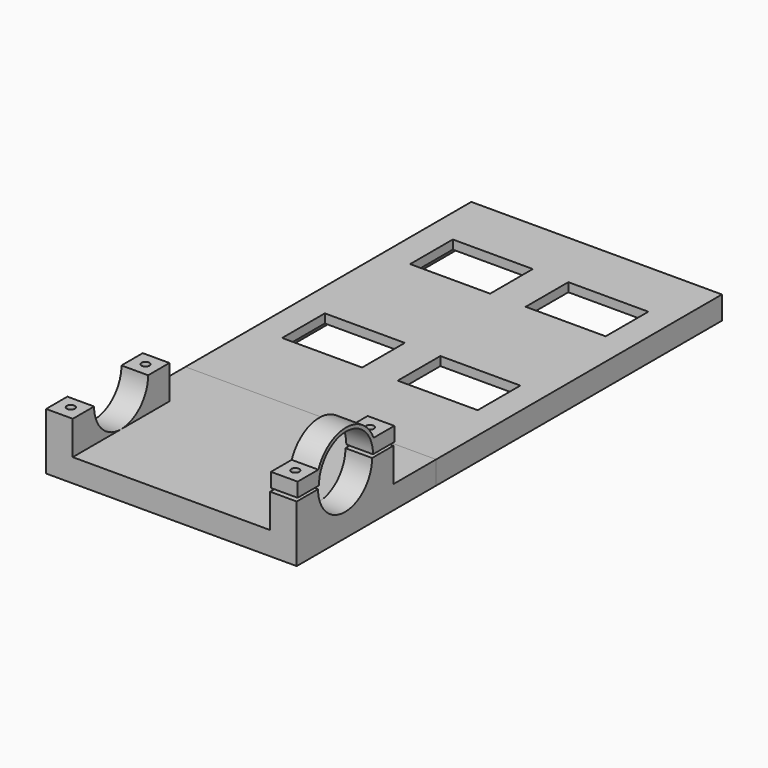
from build123d import *

# Parameters (mm, degrees)
SKETCH_W             = 141
SKETCH_H             = 299
PAD_DEPTH            = 13
SKETCH001_W          = 15
SKETCH001_H          = 68
PAD001_DEPTH         = 61
SKETCH015_W          = 125
SKETCH015_H          = 185
SKETCH016_W          = 115
SKETCH016_H          = 185
SKETCH003_W          = 45
SKETCH003_H          = 30
POCKET_DEPTH         = 0.001
POCKET_DEPTH_BACK    = -61.001
SKETCH004_R          = 19
POCKET011_DEPTH      = 141.001
SKETCH005_W          = 70
SKETCH005_H          = 65
POCKET012_DEPTH      = 141.001
SKETCH006_R          = 2.25
POCKET013_DEPTH      = 32.001
SKETCH007_R          = 4
POCKET014_DEPTH      = 29
SKETCH009_W          = 15
SKETCH009_H          = 68
PAD003_DEPTH         = 61
SKETCH010_R          = 19
POCKET006_DEPTH      = 7.501
POCKET006_DEPTH_BACK = -7.501
SKETCH011_W          = 80
SKETCH011_H          = 40
POCKET007_DEPTH      = 7.501
POCKET007_DEPTH_BACK = -7.501
SKETCH012_R          = 2.25
POCKET008_DEPTH      = 55
POCKET015_DEPTH      = 7.501
POCKET015_DEPTH_BACK = -7.501
SKETCH018_W          = 141
SKETCH018_H          = 98
PAD004_DEPTH         = 13
SKETCH019_W          = 15
SKETCH019_H          = 68
PAD005_DEPTH         = 61
SKETCH021_R          = 19
POCKET017_DEPTH      = 141.001
SKETCH022_W          = 70
SKETCH022_H          = 65
POCKET018_DEPTH      = 141.001
SKETCH023_R          = 2.25
POCKET019_DEPTH      = 32.001
SKETCH024_R          = 4
POCKET020_DEPTH      = 29


with BuildPart() as body:
    # Sketch → Pad (new body)
    with BuildSketch(Plane.XY):
        with Locations((70.5, 149.5)):
            Rectangle(SKETCH_W, SKETCH_H)
    extrude(amount=PAD_DEPTH)

    # Sketch001 → Pad001 (join)
    with BuildSketch(Plane.XY):
        with Locations((133.5, 34)):
            Rectangle(SKETCH001_W, SKETCH001_H)
        with Locations((7.5, 34)):
            Rectangle(SKETCH001_W, SKETCH001_H)
    extrude(amount=PAD001_DEPTH)

    # Sketch015 → SubtractiveLoft section 0
    with BuildSketch(Plane.XY):
        with Locations((70.5, 198.5)):
            Rectangle(SKETCH015_W, SKETCH015_H)
    # Sketch016 → SubtractiveLoft section 1
    with BuildSketch(Plane.XY.offset(8)):
        with Locations((70.5, 198.5)):
            Rectangle(SKETCH016_W, SKETCH016_H)
    loft(mode=Mode.SUBTRACT)

    # Sketch003 → Pocket (cut, two sides)
    with BuildSketch(Plane.XY) as pocket_sk:
        with Locations((38.5, 251)):
            Rectangle(SKETCH003_W, SKETCH003_H)
        with Locations((103.5, 251)):
            Rectangle(SKETCH003_W, SKETCH003_H)
        with Locations((103.5, 161)):
            Rectangle(SKETCH003_W, SKETCH003_H)
        with Locations((38.5, 161)):
            Rectangle(SKETCH003_W, SKETCH003_H)
    extrude(amount=-POCKET_DEPTH, mode=Mode.SUBTRACT)
    extrude(pocket_sk.sketch, amount=-POCKET_DEPTH_BACK, mode=Mode.SUBTRACT)

    # Sketch004 → Pocket011 (cut, through all)
    with BuildSketch(Plane.YZ):
        with Locations((34, 32)):
            Circle(SKETCH004_R)
    extrude(amount=POCKET011_DEPTH, mode=Mode.SUBTRACT)

    # Sketch005 → Pocket012 (cut, through all)
    with BuildSketch(Plane.YZ):
        with Locations((35, 64.5)):
            Rectangle(SKETCH005_W, SKETCH005_H)
    extrude(amount=POCKET012_DEPTH, mode=Mode.SUBTRACT)

    # Sketch006 → Pocket013 (cut, through all)
    with BuildSketch(Plane.XY):
        with Locations((7.5, 60.5)):
            Circle(SKETCH006_R)
        with Locations((133.5, 60.5)):
            Circle(SKETCH006_R)
        with Locations((133.5, 8)):
            Circle(SKETCH006_R)
        with Locations((7.5, 8)):
            Circle(SKETCH006_R)
    extrude(amount=POCKET013_DEPTH, mode=Mode.SUBTRACT)

    # Sketch007 → Pocket014 (cut)
    with BuildSketch(Plane.XY):
        with Locations((133.5, 8)):
            Circle(SKETCH007_R)
        with Locations((7.5, 60.5)):
            Circle(SKETCH007_R)
        with Locations((7.5, 8)):
            Circle(SKETCH007_R)
        with Locations((133.5, 60.5)):
            Circle(SKETCH007_R)
    extrude(amount=POCKET014_DEPTH, mode=Mode.SUBTRACT)


with BuildPart() as hole_fixer:
    # Sketch009 → Pad003 (new body)
    with BuildSketch(Plane.XY):
        Rectangle(SKETCH009_W, SKETCH009_H)
    extrude(amount=PAD003_DEPTH)

    # Sketch010 → Pocket006 (cut, two sides)
    with BuildSketch(Plane.YZ) as pocket006_sk:
        with Locations((0, 32)):
            Circle(SKETCH010_R)
    extrude(amount=-POCKET006_DEPTH, mode=Mode.SUBTRACT)
    extrude(pocket006_sk.sketch, amount=-POCKET006_DEPTH_BACK, mode=Mode.SUBTRACT)

    # Sketch011 → Pocket007 (cut, two sides)
    with BuildSketch(Plane.YZ) as pocket007_sk:
        with Locations((0, 12)):
            Rectangle(SKETCH011_W, SKETCH011_H)
    extrude(amount=-POCKET007_DEPTH, mode=Mode.SUBTRACT)
    extrude(pocket007_sk.sketch, amount=-POCKET007_DEPTH_BACK, mode=Mode.SUBTRACT)

    # Sketch012 → Pocket008 (cut)
    with BuildSketch(Plane.XY):
        with Locations((0, 26.25)):
            Circle(SKETCH012_R)
        with Locations((0, -26.25)):
            Circle(SKETCH012_R)
    extrude(amount=POCKET008_DEPTH, mode=Mode.SUBTRACT)

    # Sketch017 → Pocket015 (cut, two sides)
    with BuildSketch(Plane.YZ) as pocket015_sk:
        with BuildLine():
            ThreePointArc((19.416488, 40), (0, 53), (-19.416488, 40))
            Line((-36, 40), (-19.416488, 40))
            Line((-36, 63), (-36, 40))
            Line((36, 63), (-36, 63))
            Line((36, 40), (36, 63))
            Line((19.416488, 40), (36, 40))
        make_face()
    extrude(amount=-POCKET015_DEPTH, mode=Mode.SUBTRACT)
    extrude(pocket015_sk.sketch, amount=-POCKET015_DEPTH_BACK, mode=Mode.SUBTRACT)


with BuildPart() as hole_fixer_1:
    # Body001 placement: moved
    add(hole_fixer.part.moved(Location((134, 34, 2))))


with BuildPart() as body002:
    # Sketch018 → Pad004 (new body)
    with BuildSketch(Plane.XY):
        with Locations((70.5, 49)):
            Rectangle(SKETCH018_W, SKETCH018_H)
    extrude(amount=PAD004_DEPTH)

    # Sketch019 → Pad005 (join)
    with BuildSketch(Plane.XY):
        with Locations((133.5, 34)):
            Rectangle(SKETCH019_W, SKETCH019_H)
        with Locations((7.5, 34)):
            Rectangle(SKETCH019_W, SKETCH019_H)
    extrude(amount=PAD005_DEPTH)

    # Sketch021 → Pocket017 (cut, through all)
    with BuildSketch(Plane.YZ):
        with Locations((34, 32)):
            Circle(SKETCH021_R)
    extrude(amount=POCKET017_DEPTH, mode=Mode.SUBTRACT)

    # Sketch022 → Pocket018 (cut, through all)
    with BuildSketch(Plane.YZ):
        with Locations((35, 64.5)):
            Rectangle(SKETCH022_W, SKETCH022_H)
    extrude(amount=POCKET018_DEPTH, mode=Mode.SUBTRACT)

    # Sketch023 → Pocket019 (cut, through all)
    with BuildSketch(Plane.XY):
        with Locations((7.5, 60.5)):
            Circle(SKETCH023_R)
        with Locations((133.5, 60.5)):
            Circle(SKETCH023_R)
        with Locations((133.5, 8)):
            Circle(SKETCH023_R)
        with Locations((7.5, 8)):
            Circle(SKETCH023_R)
    extrude(amount=POCKET019_DEPTH, mode=Mode.SUBTRACT)

    # Sketch024 → Pocket020 (cut)
    with BuildSketch(Plane.XY):
        with Locations((133.5, 8)):
            Circle(SKETCH024_R)
        with Locations((7.5, 60.5)):
            Circle(SKETCH024_R)
        with Locations((7.5, 8)):
            Circle(SKETCH024_R)
        with Locations((133.5, 60.5)):
            Circle(SKETCH024_R)
    extrude(amount=POCKET020_DEPTH, mode=Mode.SUBTRACT)


solid = Compound([body.part, hole_fixer_1.part, body002.part])
